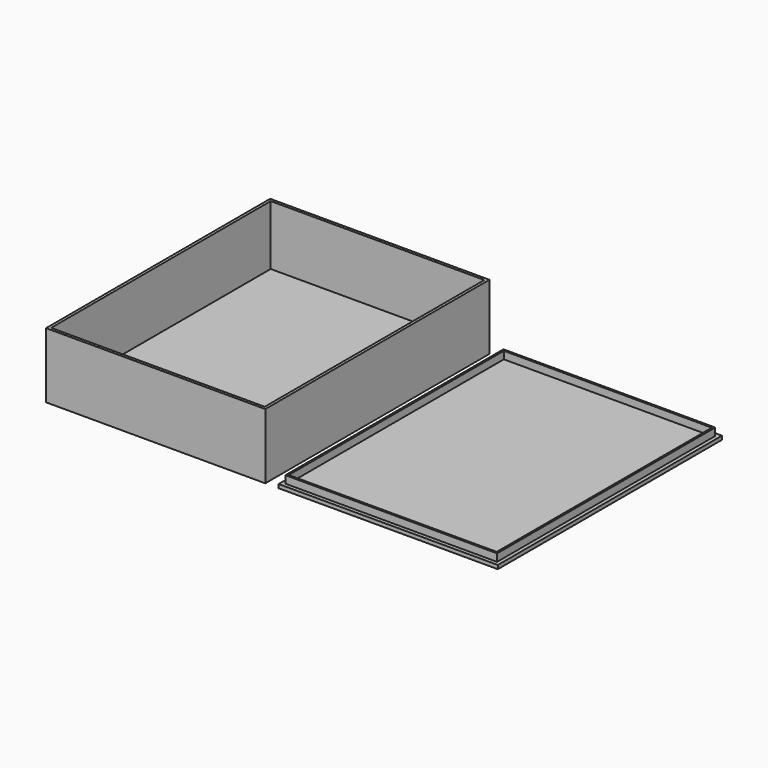
from build123d import *

# Parameters (mm, degrees)
F0_W     = 117.4
F0_H     = 150
F0_W_2   = 114.4
F0_H_2   = 147
F1_DEPTH = 35
F2_W     = 117.4
F2_H     = 150
F3_DEPTH = 3
F4_W     = 113.4
F4_H     = 146
F4_W_2   = 111.4
F4_H_2   = 144
F5_DEPTH = 6
F4_W_3   = 117.4
F4_H_3   = 150
F6_DEPTH = 2


with BuildPart() as f1:
    # F0 (on Top) → F1 (new body)
    with BuildSketch(Plane.XY):
        Rectangle(F0_W, F0_H)
        Rectangle(F0_W_2, F0_H_2, mode=Mode.SUBTRACT)
    extrude(amount=F1_DEPTH)

    # F2 (on Top) → F3 (join)
    with BuildSketch(Plane.XY):
        Rectangle(F2_W, F2_H)
    extrude(amount=F3_DEPTH)


with BuildPart() as f5:
    # F4 (on Top) → F5 (new body)
    with BuildSketch(Plane.XY):
        with Locations((124.538116, 0)):
            Rectangle(F4_W, F4_H)
        with Locations((124.538116, 0)):
            Rectangle(F4_W_2, F4_H_2, mode=Mode.SUBTRACT)
    extrude(amount=F5_DEPTH)

    # F4 (on Top) → F6 (join)
    with BuildSketch(Plane.XY):
        with Locations((124.538116, 0)):
            Rectangle(F4_W_3, F4_H_3)
        with Locations((124.538116, 0)):
            Rectangle(F4_W, F4_H, mode=Mode.SUBTRACT)
        with Locations((124.538116, 0)):
            Rectangle(F4_W_2, F4_H_2)
    extrude(amount=F6_DEPTH)


solid = Compound([f1.part, f5.part])
